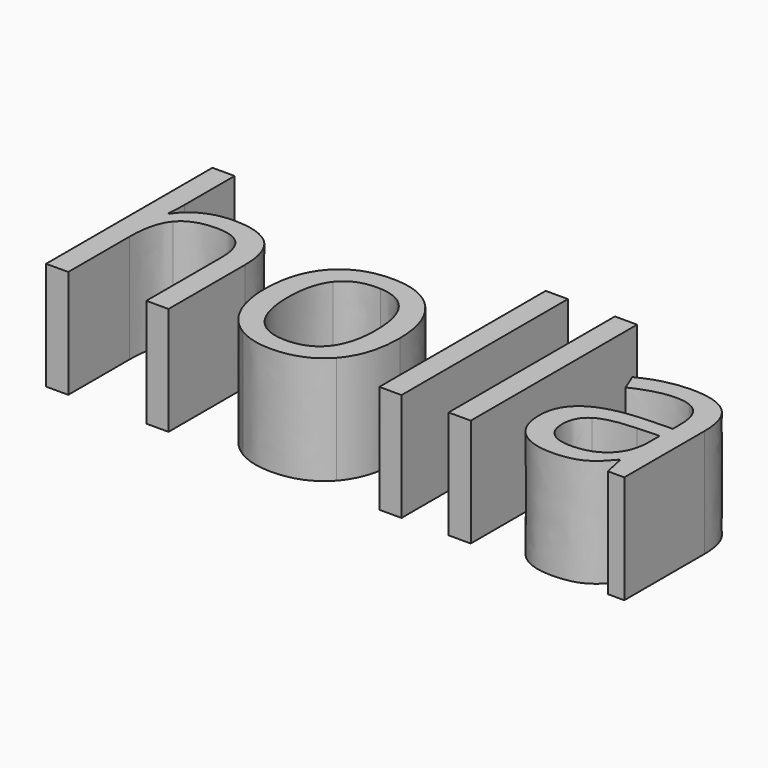
from build123d import *

# Parameters (mm, degrees)
F0_W     = 5.2104656285
F0_H     = 48.8217617561
F1_DEPTH = 25.4


with BuildPart() as f1:
    # F0 (on Top) → F1 (new body)
    with BuildSketch(Plane.XY):
        with BuildLine():
            add(Edge.make_bspline(
                [(-13.3722078844, 3.8366541831), (-11.5293562231, 4.2080032031), (-9.428347489, 4.2080032031)],
                knots=[0.7187155366, 0.7187155366, 0.7187155366, 1, 1, 1], degree=2))
            Line((-13.3722078844, 3.8366541831), (-8.7174049676, -0.2445146523))
            add(Edge.make_bspline(
                [(-1.758220822, -3.6227543888), (-4.180892032, -0.5118243123), (-8.7174049676, -0.2445146523)],
                knots=[0, 0, 0, 0.9140740378, 0.9140740378, 0.9140740378], degree=2))
            add(Edge.make_bspline(
                [(0.3193388525, -8.1676164271), (-0.3399992938, -5.4438797604), (-1.758220822, -3.6227543888)],
                knots=[0.464904906, 0.464904906, 0.464904906, 1, 1, 1], degree=2))
            Line((0.3193388525, -8.1676164271), (6.2828148414, -13.3961841648))
            add(Edge.make_bspline(
                [(2.0316650638, -0.5958653966), (6.2350067194, -5.3450955788), (6.2828148414, -13.3961841648)],
                knots=[0, 0, 0, 0.9886261632, 0.9886261632, 0.9886261632], degree=2))
            add(Edge.make_bspline(
                [(-9.428347489, 4.2080032031), (-2.2200347313, 4.2080032031), (2.0316650638, -0.5958653966)],
                knots=[0, 0, 0, 1, 1, 1], degree=2))
        make_face()
        with BuildLine():
            Line((-8.7174049676, -0.2445146523), (-13.3722078844, 3.8366541831))
            add(Edge.make_bspline(
                [(-21.1042078473, -0.4854316357), (-18.080914881, 2.8878129032), (-13.3722078844, 3.8366541831)],
                knots=[0, 0, 0, 0.7187155366, 0.7187155366, 0.7187155366], degree=2))
            add(Edge.make_bspline(
                [(-25.3107301948, -13.5818717366), (-25.3107301948, -5.1788664744), (-21.1042078473, -0.4854316357)],
                knots=[0, 0, 0, 1, 1, 1], degree=2))
            add(Edge.make_bspline(
                [(-23.3630802296, -23.0590963094), (-25.3107301948, -19.0132048869), (-25.3107301948, -13.5818717366)],
                knots=[0, 0, 0, 1, 1, 1], degree=2))
            add(Edge.make_bspline(
                [(-17.841392184, -29.273505219), (-21.4154302644, -27.1049877319), (-23.3630802296, -23.0590963094)],
                knots=[0, 0, 0, 1, 1, 1], degree=2))
            add(Edge.make_bspline(
                [(-9.6492150108, -31.442022706), (-14.2673541035, -31.442022706), (-17.841392184, -29.273505219)],
                knots=[0, 0, 0, 1, 1, 1], degree=2))
            add(Edge.make_bspline(
                [(2.0517439295, -26.7184695688), (-2.179877, -31.442022706), (-9.6492150108, -31.442022706)],
                knots=[0, 0, 0, 1, 1, 1], degree=2))
            add(Edge.make_bspline(
                [(6.283364859, -13.5818717366), (6.283364859, -21.9949164315), (2.0517439295, -26.7184695688)],
                knots=[0, 0, 0, 1, 1, 1], degree=2))
            add(Edge.make_bspline(
                [(6.2828148414, -13.3961841648), (6.283364859, -13.4888094372), (6.283364859, -13.5818717366)],
                knots=[0.9886261632, 0.9886261632, 0.9886261632, 1, 1, 1], degree=2))
            Line((6.2828148414, -13.3961841648), (0.3193388525, -8.1676164271))
            add(Edge.make_bspline(
                [(0.8921894399, -13.5818717366), (0.8921894399, -10.5340715734), (0.3193388525, -8.1676164271)],
                knots=[0, 0, 0, 0.464904906, 0.464904906, 0.464904906], degree=2))
            add(Edge.make_bspline(
                [(-1.758220822, -23.6413834124), (0.8921894399, -20.2078973913), (0.8921894399, -13.5818717366)],
                knots=[0, 0, 0, 1, 1, 1], degree=2))
            add(Edge.make_bspline(
                [(-9.5287418171, -27.0748694335), (-4.4086310839, -27.0748694335), (-1.758220822, -23.6413834124)],
                knots=[0, 0, 0, 1, 1, 1], degree=2))
            add(Edge.make_bspline(
                [(-17.2741642302, -23.6263242632), (-14.6388131175, -27.0748694335), (-9.5287418171, -27.0748694335)],
                knots=[0, 0, 0, 1, 1, 1], degree=2))
            add(Edge.make_bspline(
                [(-19.9095153429, -13.5818717366), (-19.9095153429, -20.1777790929), (-17.2741642302, -23.6263242632)],
                knots=[0, 0, 0, 1, 1, 1], degree=2))
            add(Edge.make_bspline(
                [(-17.3042825286, -3.5775769412), (-19.9095153429, -6.9357672162), (-19.9095153429, -13.5818717366)],
                knots=[0, 0, 0, 1, 1, 1], degree=2))
            add(Edge.make_bspline(
                [(-9.588978414, -0.2193866662), (-14.6990497144, -0.2193866662), (-17.3042825286, -3.5775769412)],
                knots=[0, 0, 0, 1, 1, 1], degree=2))
            add(Edge.make_bspline(
                [(-8.7174049676, -0.2445146523), (-9.1438520853, -0.2193866662), (-9.588978414, -0.2193866662)],
                knots=[0.9140740378, 0.9140740378, 0.9140740378, 1, 1, 1], degree=2))
        make_face()
        Polygon((15.4192487163, 18.0122233172), (15.4192487163, -21.4066907024), (20.6297143448, -25.9750452216), (20.6297143448, 18.0122233172), align=None)
        Polygon((20.6297143448, -25.9750452216), (15.4192487163, -21.4066907024), (15.4192487163, -30.8095384389), (20.6297143448, -30.8095384389), align=None)
        with BuildLine():
            Line((-39.2956600994, -8.5621553315), (-39.2956600994, -30.8095384389))
            Line((-39.2956600994, -30.8095384389), (-34.0851944709, -30.8095384389))
            Line((-34.0851944709, -30.8095384389), (-34.0851944709, -8.3814455409))
            add(Edge.make_bspline(
                [(-37.2425960897, 1.1409564796), (-34.0851944709, -1.8558142142), (-34.0851944709, -8.3814455409)],
                knots=[0, 0, 0, 1, 1, 1], degree=2))
            add(Edge.make_bspline(
                [(-46.7047615134, 4.1377271735), (-40.3999977085, 4.1377271735), (-37.2425960897, 1.1409564796)],
                knots=[0, 0, 0, 1, 1, 1], degree=2))
            add(Edge.make_bspline(
                [(-53.180195676, 2.7121277144), (-50.3390361907, 4.1377271735), (-46.7047615134, 4.1377271735)],
                knots=[0, 0, 0, 1, 1, 1], degree=2))
            add(Edge.make_bspline(
                [(-57.5573883812, -1.1932116488), (-56.0213551612, 1.2865282554), (-53.180195676, 2.7121277144)],
                knots=[0, 0, 0, 1, 1, 1], degree=2))
            Line((-57.5573883812, -1.1932116488), (-57.8686107983, -1.1932116488))
            add(Edge.make_bspline(
                [(-57.6176249781, 3.2341782205), (-57.6176249781, 0.563689093), (-57.8686107983, -1.1932116488)],
                knots=[0, 0, 0, 1, 1, 1], degree=2))
            Line((-57.6176249781, 3.2341782205), (-57.6176249781, 18.0122233172))
            Line((-57.6176249781, 18.0122233172), (-62.8280906066, 18.0122233172))
            Line((-62.8280906066, 18.0122233172), (-62.8280906066, -30.8095384389))
            Line((-62.8280906066, -30.8095384389), (-57.6176249781, -30.8095384389))
            Line((-57.6176249781, -30.8095384389), (-57.6176249781, -12.8289142758))
            add(Edge.make_bspline(
                [(-55.1228259247, -3.1709799124), (-57.6176249781, -6.1225731586), (-57.6176249781, -12.8289142758)],
                knots=[0, 0, 0, 1, 1, 1], degree=2))
            add(Edge.make_bspline(
                [(-47.2067331539, -0.2193866662), (-52.6280268714, -0.2193866662), (-55.1228259247, -3.1709799124)],
                knots=[0, 0, 0, 1, 1, 1], degree=2))
            add(Edge.make_bspline(
                [(-41.2081720498, -2.2925295415), (-43.1206840001, -0.2193866662), (-47.2067331539, -0.2193866662)],
                knots=[0, 0, 0, 1, 1, 1], degree=2))
            add(Edge.make_bspline(
                [(-39.2956600994, -8.5621553315), (-39.2956600994, -4.3656724168), (-41.2081720498, -2.2925295415)],
                knots=[0, 0, 0, 1, 1, 1], degree=2))
        make_face()
        with Locations((34.2783232503, -6.3986575609)):
            Rectangle(F0_W, F0_H)
        with BuildLine():
            Line((68.0359160746, -25.9102952275), (69.0699776541, -30.8095384389))
            Line((69.0699776541, -30.8095384389), (72.935159286, -30.8095384389))
            Line((72.935159286, -30.8095384389), (72.935159286, -7.3373445286))
            add(Edge.make_bspline(
                [(69.9685068906, 1.4120211655), (72.935159286, -1.3136848425), (72.935159286, -7.3373445286)],
                knots=[0, 0, 0, 1, 1, 1], degree=2))
            add(Edge.make_bspline(
                [(60.8577216153, 4.1377271735), (67.0018544952, 4.1377271735), (69.9685068906, 1.4120211655)],
                knots=[0, 0, 0, 1, 1, 1], degree=2))
            add(Edge.make_bspline(
                [(54.7788450487, 3.3546514143), (57.805734041, 4.1377271735), (60.8577216153, 4.1377271735)],
                knots=[0, 0, 0, 1, 1, 1], degree=2))
            add(Edge.make_bspline(
                [(49.2119795555, 1.1961733601), (51.7519560565, 2.5715756551), (54.7788450487, 3.3546514143)],
                knots=[0, 0, 0, 1, 1, 1], degree=2))
            Line((49.2119795555, 1.1961733601), (50.8182888051, -2.7894814656))
            add(Edge.make_bspline(
                [(60.5364597654, -0.1591500693), (56.2395825226, -0.1591500693), (50.8182888051, -2.7894814656)],
                knots=[0, 0, 0, 1, 1, 1], degree=2))
            add(Edge.make_bspline(
                [(66.1083449751, -2.0867211689), (64.3715230989, -0.1591500693), (60.5364597654, -0.1591500693)],
                knots=[0, 0, 0, 1, 1, 1], degree=2))
            add(Edge.make_bspline(
                [(67.8451668512, -8.060183691), (67.8451668512, -4.0142922684), (66.1083449751, -2.0867211689)],
                knots=[0, 0, 0, 1, 1, 1], degree=2))
            Line((67.8451668512, -8.060183691), (67.8451668512, -10.1985828795))
            Line((67.8451668512, -10.1985828795), (62.0122563885, -10.3893321029))
            add(Edge.make_bspline(
                [(45.3568373563, -21.3021955676), (45.3568373563, -10.8913037434), (62.0122563885, -10.3893321029)],
                knots=[0, 0, 0, 1, 1, 1], degree=2))
            add(Edge.make_bspline(
                [(48.2582334385, -28.8016518769), (45.3568373563, -26.1612810478), (45.3568373563, -21.3021955676)],
                knots=[0, 0, 0, 1, 1, 1], degree=2))
            add(Edge.make_bspline(
                [(56.2697008211, -31.442022706), (51.1596295206, -31.442022706), (48.2582334385, -28.8016518769)],
                knots=[0, 0, 0, 1, 1, 1], degree=2))
            add(Edge.make_bspline(
                [(62.6597998048, -30.2925076492), (60.1047641546, -31.442022706), (56.2697008211, -31.442022706)],
                knots=[0, 0, 0, 1, 1, 1], degree=2))
            add(Edge.make_bspline(
                [(67.7849302544, -25.9102952275), (65.214835455, -29.1429925924), (62.6597998048, -30.2925076492)],
                knots=[0, 0, 0, 1, 1, 1], degree=2))
            Line((67.7849302544, -25.9102952275), (68.0359160746, -25.9102952275))
        make_face()
        with BuildLine():
            add(Edge.make_bspline(
                [(57.3037624005, -27.1351060304), (62.1728873135, -27.1351060304), (64.9487904855, -24.4696366193)],
                knots=[0, 0, 0, 1, 1, 1], degree=2))
            add(Edge.make_bspline(
                [(52.5249923828, -25.6643291237), (54.2316959606, -27.1351060304), (57.3037624005, -27.1351060304)],
                knots=[0, 0, 0, 1, 1, 1], degree=2))
            add(Edge.make_bspline(
                [(50.8182888051, -21.3624321645), (50.8182888051, -24.193552217), (52.5249923828, -25.6643291237)],
                knots=[0, 0, 0, 1, 1, 1], degree=2))
            add(Edge.make_bspline(
                [(53.5590539623, -16.0465524915), (50.8182888051, -17.7582757856), (50.8182888051, -21.3624321645)],
                knots=[0, 0, 0, 1, 1, 1], degree=2))
            add(Edge.make_bspline(
                [(62.514228029, -14.1139616755), (56.2998191195, -14.3348291973), (53.5590539623, -16.0465524915)],
                knots=[0, 0, 0, 1, 1, 1], degree=2))
            Line((62.514228029, -14.1139616755), (67.7246936575, -13.9031335865))
            Line((67.7246936575, -13.9031335865), (67.7246936575, -17.0053183249))
            add(Edge.make_bspline(
                [(64.9487904855, -24.4696366193), (67.7246936575, -21.8041672082), (67.7246936575, -17.0053183249)],
                knots=[0, 0, 0, 1, 1, 1], degree=2))
        make_face(mode=Mode.SUBTRACT)
    extrude(amount=F1_DEPTH)


solid = f1.part
